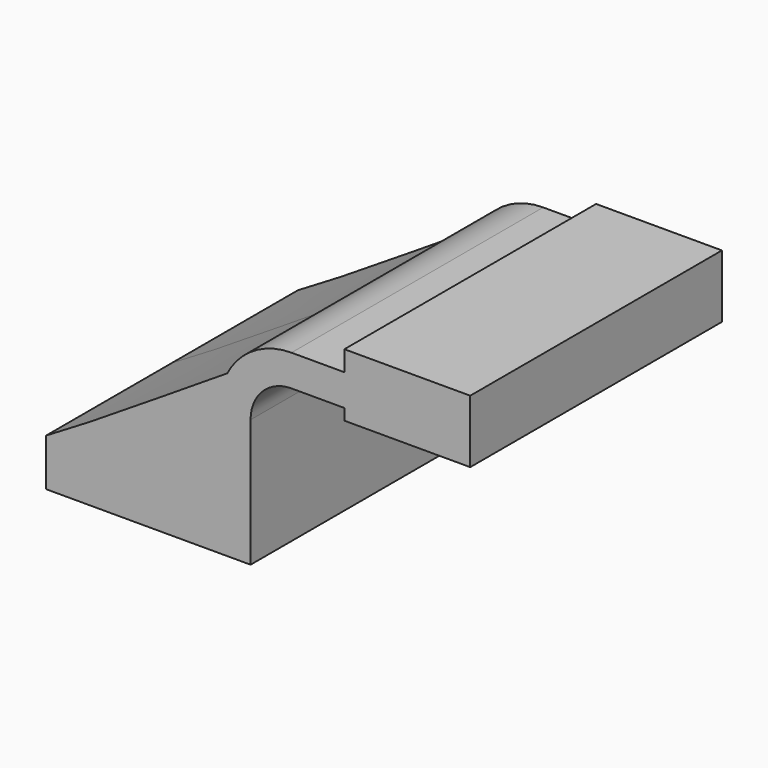
from build123d import *

# Parameters (mm, degrees)
F0_W     = 14.1772931536
F0_H     = 12.7
F1_DEPTH = 63.5


with BuildPart() as f1:
    # F0 (on Front) → F1 (new body, symmetric)
    with BuildSketch(Plane.XZ):
        Polygon((41.275, -9.525), (41.275, 9.525), (28.575, 9.525), (-41.275, 9.525), (-41.275, -9.525), align=None)
        with BuildLine():
            Line((28.575, 9.525), (41.275, 9.525))
            Line((41.275, 9.525), (41.275, 41.9857141757))
            ThreePointArc((41.275, 41.9857141757), (46.1106670426, 53.6600471331), (57.785, 58.4957141757))
            Line((57.785, 58.4957141757), (79.1362750345, 58.4957141757))
            Line((79.1362750345, 58.4957141757), (79.1362750345, 71.1957141757))
            Line((79.1362750345, 71.1957141757), (57.785, 71.1957141757))
            add(Edge.make_bspline(
                [(31.8470170631, 55.4187012286), (40.4930113754, 60.8574965018), (49.1390056877, 66.1647194119), (57.785, 71.1957141757)],
                knots=[86.1345068551, 86.1345068551, 86.1345068551, 86.1345068551, 116.6883052707, 116.6883052707, 116.6883052707, 116.6883052707], degree=3))
            ThreePointArc((31.8470170631, 55.4187012286), (29.4047905083, 48.8985868931), (28.575, 41.9857141757))
            Line((28.575, 41.9857141757), (28.575, 9.525))
        make_face()
        with BuildLine():
            Line((-41.275, 9.525), (28.575, 9.525))
            Line((28.575, 9.525), (28.575, 41.9857141757))
            ThreePointArc((28.575, 41.9857141757), (29.4047905083, 48.8985868931), (31.8470170631, 55.4187012286))
            add(Edge.make_bspline(
                [(-41.275, 9.525), (-16.9009943123, 23.7079257062), (7.4730113754, 40.0861411859), (31.8470170631, 55.4187012286)],
                knots=[0, 0, 0, 0, 86.1345068551, 86.1345068551, 86.1345068551, 86.1345068551], degree=3))
        make_face()
        with BuildLine():
            ThreePointArc((57.785, 71.1957141757), (42.6053005928, 66.9416919347), (31.8470170631, 55.4187012286))
            add(Edge.make_bspline(
                [(31.8470170631, 55.4187012286), (40.4930113754, 60.8574965018), (49.1390056877, 66.1647194119), (57.785, 71.1957141757)],
                knots=[86.1345068551, 86.1345068551, 86.1345068551, 86.1345068551, 116.6883052707, 116.6883052707, 116.6883052707, 116.6883052707], degree=3))
        make_face()
        Polygon((93.3135681881, 58.4957141757), (79.1362750345, 58.4957141757), (79.1362750345, 53.975), (129.9362750345, 53.975), (129.9362750345, 79.375), (79.1362750345, 79.375), (79.1362750345, 71.1957141757), (93.3135681881, 71.1957141757), align=None)
        with Locations((86.2249216113, 64.8457141757)):
            Rectangle(F0_W, F0_H)
    extrude(amount=F1_DEPTH, both=True)


solid = f1.part
